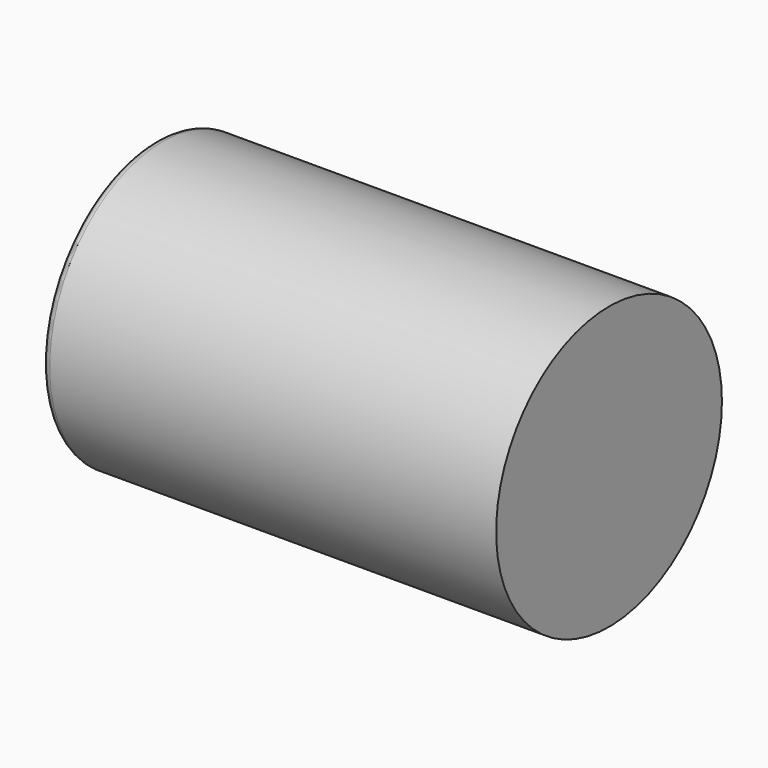
from build123d import *

# Parameters (mm, degrees)
F0_W      = 0.6
F0_H      = 17.1
F2_R      = 0.4
F3_R      = 1
F4_R      = 6.45
F5_DEPTH  = 4.5
F6_R      = 0.5
F7_R      = 4.8
F8_DEPTH  = 0.6
F4_R_2    = 1.25
F9_DEPTH  = 25
F10_R     = 17.1
F11_DEPTH = 0.6


with BuildPart() as f1:
    # F0 (on Top) → F1 (revolve)
    with BuildSketch(Plane.XY):
        with Locations((0.3, 8.55)):
            Rectangle(F0_W, F0_H)
        Polygon((0, 17.7), (0, 17.1), (0.6, 17.1), (57, 17.1), (57, 17.7), align=None)
    revolve(axis=Axis((0.3, 0, 0), (1, 0, 0)))

    # F2
    f2_edges = [f1.edges().sort_by_distance(p)[0] for p in [
        (0.6, -17.1, 0),
    ]]
    fillet(f2_edges, radius=F2_R)

    # F3
    f3_edges = [f1.edges().sort_by_distance(p)[0] for p in [
        (0, -17.7, 0),
    ]]
    fillet(f3_edges, radius=F3_R)

    # F4 (on Right) → F5 (join)
    with BuildSketch(Plane.YZ):
        Circle(F4_R)
    extrude(amount=-F5_DEPTH)

    # F6
    f6_edges = [f1.edges().sort_by_distance(p)[0] for p in [
        (0, -6.45, 0),
        (-4.5, -6.45, 0),
    ]]
    fillet(f6_edges, radius=F6_R)

    # F7 (on face) → F8 (cut)
    with BuildSketch(Plane(origin=(-4.5, 0, 0), x_dir=(0, -1, 0), z_dir=(-1, 0, 0))):
        Circle(F7_R)
    extrude(amount=-F8_DEPTH, mode=Mode.SUBTRACT)

    # F4 (on Right) → F9 (cut)
    with BuildSketch(Plane.YZ):
        with Locations((0, -12.5)):
            Circle(F4_R_2)
        with Locations((0, 12.5)):
            Circle(F4_R_2)
    extrude(amount=F9_DEPTH, mode=Mode.SUBTRACT)

    # F10 (on face) → F11 (join)
    with BuildSketch(Plane.YZ.offset(57)):
        Circle(F10_R)
    extrude(amount=-F11_DEPTH)


solid = f1.part
